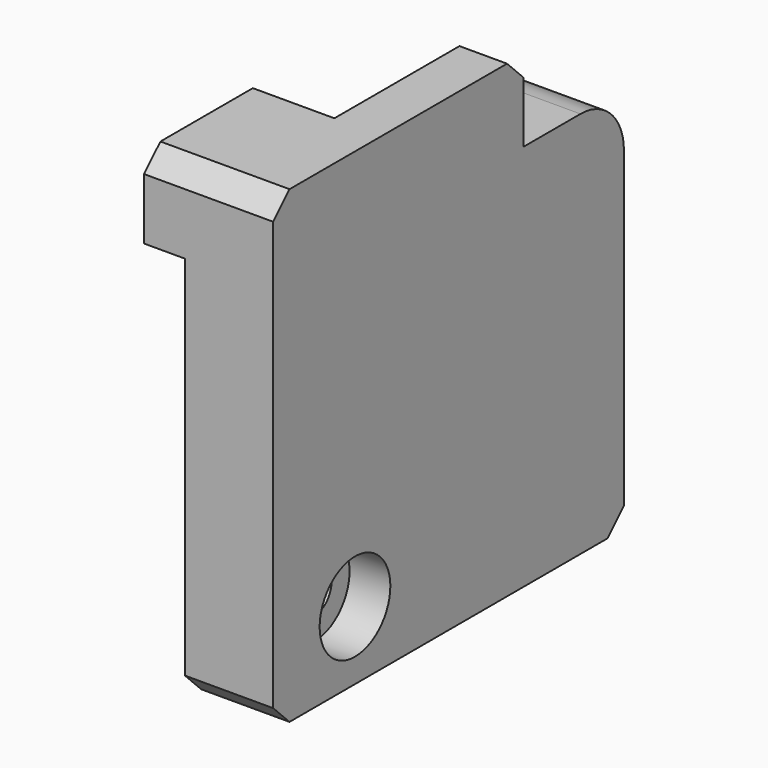
from build123d import *

# Parameters (mm, degrees)
CYLINDER012_R     = 3.2
CYLINDER012_DEPTH = 30
CYLINDER013_R     = 6.5
CYLINDER013_DEPTH = 7
BOX006_W          = 6
BOX006_H          = 8
BOX006_DEPTH      = 48
BOX009_W          = 6
BOX009_H          = 13
BOX009_DEPTH      = 18
CYLINDER011_R     = 11.5
CYLINDER011_DEPTH = 39
BOX007_W          = 6
BOX007_H          = 42.5
BOX007_DEPTH      = 5
BOX008_W          = 8
BOX008_H          = 26.5
BOX008_DEPTH      = 39
BOX010_W          = 19
BOX010_H          = 27
BOX010_DEPTH      = 12
BOX005_W          = 13
BOX005_H          = 64.5
BOX005_DEPTH      = 57
FILLET_R          = 8
BOX004_W          = 19
BOX004_H          = 46
BOX004_DEPTH      = 12
CHAMFER007_SIZE   = 3


with BuildPart() as cylinder:
    # Cylinder012 → Cylinder012 (new body)
    with BuildSketch(Plane(origin=(0, -5.1, 47), x_dir=(0, 0, -1), z_dir=(1, 0, 0))):
        Circle(CYLINDER012_R)
    extrude(amount=CYLINDER012_DEPTH)


with BuildPart() as fusion006:
    # Cylinder013 → Cylinder013 (new body)
    with BuildSketch(Plane(origin=(23, -5.1, 47), x_dir=(0, 0, -1), z_dir=(1, 0, 0))):
        Circle(CYLINDER013_R)
    extrude(amount=CYLINDER013_DEPTH)

    # Fusion006: union Cylinder
    add(cylinder.part)


with BuildPart() as cube006:
    # Box006 → Box006 (new body)
    with BuildSketch(Plane(origin=(16, -0.14, 45.95), x_dir=(1, 0, 0), z_dir=(0, 0, 1))):
        with Locations((3, 4)):
            Rectangle(BOX006_W, BOX006_H)
    extrude(amount=BOX006_DEPTH)


with BuildPart() as cube009:
    # Box009 → Box009 (new body)
    with BuildSketch(Plane(origin=(16, -13.14, 75.95), x_dir=(1, 0, 0), z_dir=(0, 0, 1))):
        with Locations((3, 6.5)):
            Rectangle(BOX009_W, BOX009_H)
    extrude(amount=BOX009_DEPTH)


with BuildPart() as pos011:
    # Cylinder011 → Cylinder011 (new body)
    with BuildSketch(Plane(origin=(13, 20.85865, 45.95), x_dir=(1, 0, 0), z_dir=(0, 0, 1))):
        Circle(CYLINDER011_R)
    extrude(amount=CYLINDER011_DEPTH)


with BuildPart() as cube007:
    # Box007 → Box007 (new body)
    with BuildSketch(Plane(origin=(16, -0.14, 45.95), x_dir=(1, 0, 0), z_dir=(0, 0, 1))):
        with Locations((3, 21.25)):
            Rectangle(BOX007_W, BOX007_H)
    extrude(amount=BOX007_DEPTH)


with BuildPart() as cube008:
    # Box008 → Box008 (new body)
    with BuildSketch(Plane(origin=(16, 20.86, 45.95), x_dir=(1, 0, 0), z_dir=(0, 0, 1))):
        with Locations((4, 13.25)):
            Rectangle(BOX008_W, BOX008_H)
    extrude(amount=BOX008_DEPTH)


with BuildPart() as fusion009:
    # Box010 → Box010 (new body)
    with BuildSketch(Plane(origin=(3, -0.14, 93.95), x_dir=(1, 0, 0), z_dir=(0, 0, 1))):
        with Locations((9.5, 13.5)):
            Rectangle(BOX010_W, BOX010_H)
    extrude(amount=BOX010_DEPTH)

    # Fusion009: union Fusion006, Cube006, Cube009, pos011, Cube007, Cube008
    add(fusion006.part)
    add(cube006.part)
    add(cube009.part)
    add(pos011.part)
    add(cube007.part)
    add(cube008.part)


with BuildPart() as fillet_body:
    # Box005 → Box005 (new body)
    with BuildSketch(Plane(origin=(16, -20.14, 36.95), x_dir=(1, 0, 0), z_dir=(0, 0, 1))):
        with Locations((6.5, 32.25)):
            Rectangle(BOX005_W, BOX005_H)
    extrude(amount=BOX005_DEPTH)

    # Fillet
    fillet_edges = [fillet_body.edges().sort_by_distance(p)[0] for p in [
        (22.5, 44.36, 93.95),
    ]]
    fillet(fillet_edges, radius=FILLET_R)


with BuildPart() as chamfer007:
    # Box004 → Box004 (new body)
    with BuildSketch(Plane(origin=(10, -20.14, 93.95), x_dir=(1, 0, 0), z_dir=(0, 0, 1))):
        with Locations((9.5, 23)):
            Rectangle(BOX004_W, BOX004_H)
    extrude(amount=BOX004_DEPTH)

    # Fusion008: union Fillet body
    add(fillet_body.part)

    # Cut005003: cut Fusion009
    add(fusion009.part, mode=Mode.SUBTRACT)

    # Chamfer007
    chamfer007_edges = [chamfer007.edges().sort_by_distance(p)[0] for p in [
        (25.5, 25.86, 105.95),
        (19.5, -20.14, 105.95),
        (22.5, -20.14, 36.95),
        (22.5, 44.36, 36.95),
    ]]
    chamfer(chamfer007_edges, length=CHAMFER007_SIZE)


solid = chamfer007.part
